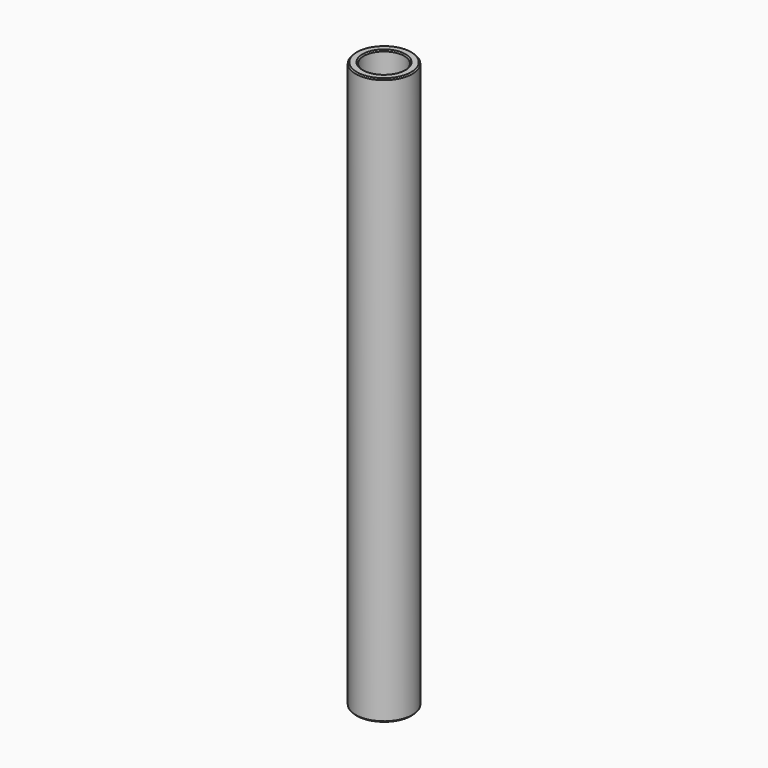
from build123d import *

# Parameters (mm, degrees)
F0_R     = 14
F0_R_2   = 10.025
F1_DEPTH = 280
F2_SIZE  = 0.6
F3_SIZE  = 2.5


with BuildPart() as f1:
    # F0 (on Top) → F1 (new body)
    with BuildSketch(Plane.XY):
        Circle(F0_R)
        Circle(F0_R_2, mode=Mode.SUBTRACT)
    extrude(amount=F1_DEPTH)

    # F2
    f2_edges = [f1.edges().sort_by_distance(p)[0] for p in [
        (-10.025, 0, 280),
        (-14, 0, 280),
        (-14, 0, 0),
    ]]
    chamfer(f2_edges, length=F2_SIZE)

    # F3
    f3_edges = [f1.edges().sort_by_distance(p)[0] for p in [
        (-10.025, 0, 0),
    ]]
    chamfer(f3_edges, length=F3_SIZE)


solid = f1.part
